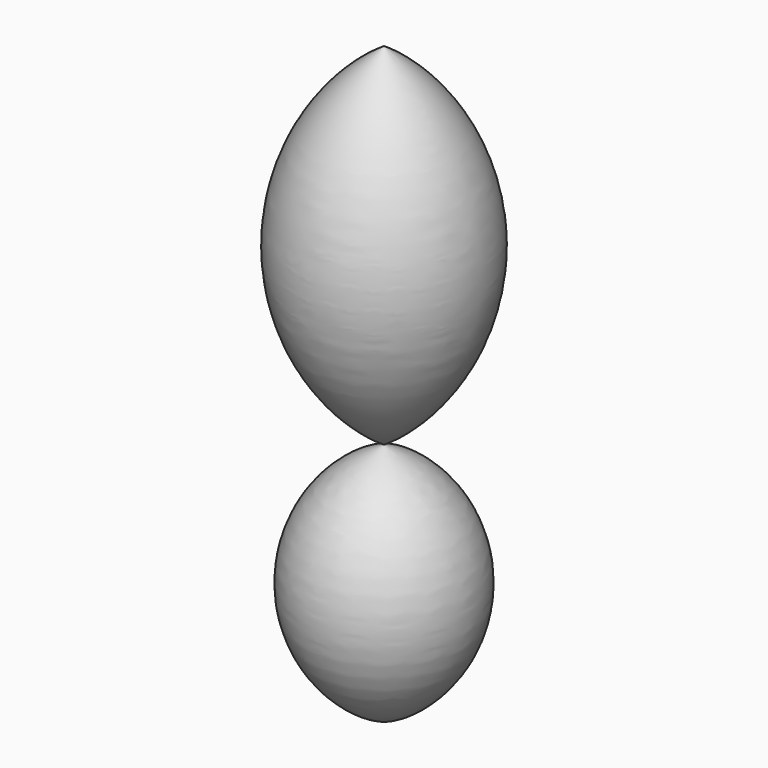
from build123d import *


with BuildPart() as f1:
    # F0 (on Front) → F1 (revolve)
    with BuildSketch(Plane.XZ):
        with BuildLine():
            Line((0, 32.913059), (0, -24.684817))
            ThreePointArc((0, -24.684817), (15.744935, 4.114121), (0, 32.913059))
        make_face()
        with BuildLine():
            ThreePointArc((0, -24.684817), (-14.051327, -44.605896), (0, -64.526975))
            Line((0, -64.526975), (0, -24.684817))
        make_face()
    revolve(axis=Axis((0, 0, 4.33065), (0, 0, 1)))


solid = f1.part
